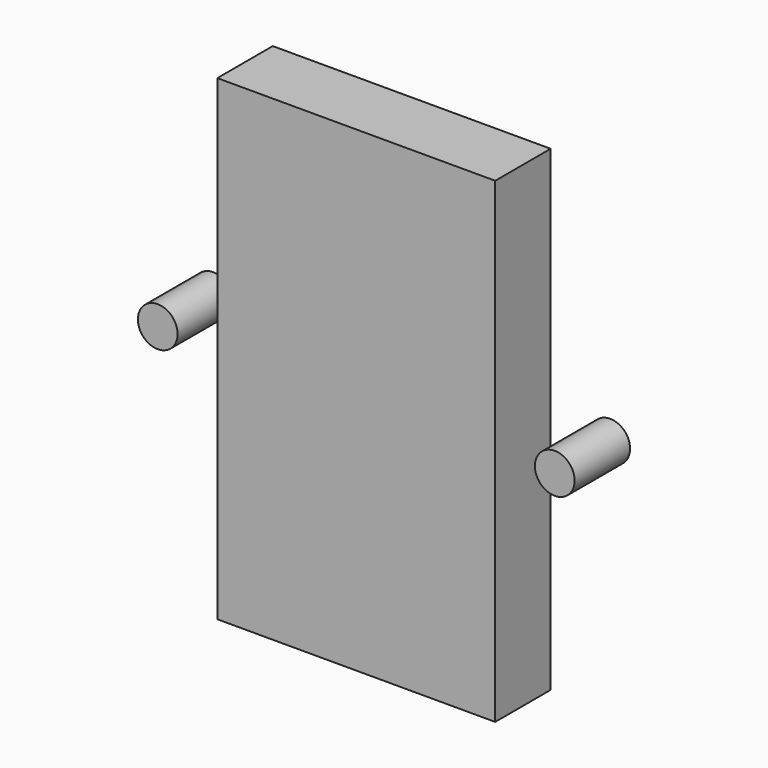
from build123d import *

# Parameters (mm, degrees)
F0_W     = 28
F0_H     = 48
F0_R     = 2
F1_DEPTH = 6.985


with BuildPart() as f1:
    # F0 (on Front) → F1 (new body)
    with BuildSketch(Plane.XZ):
        Rectangle(F0_W, F0_H)
        with Locations((20, 0)):
            Circle(F0_R)
        with Locations((-20, 0)):
            Circle(F0_R)
    extrude(amount=F1_DEPTH)


solid = f1.part
